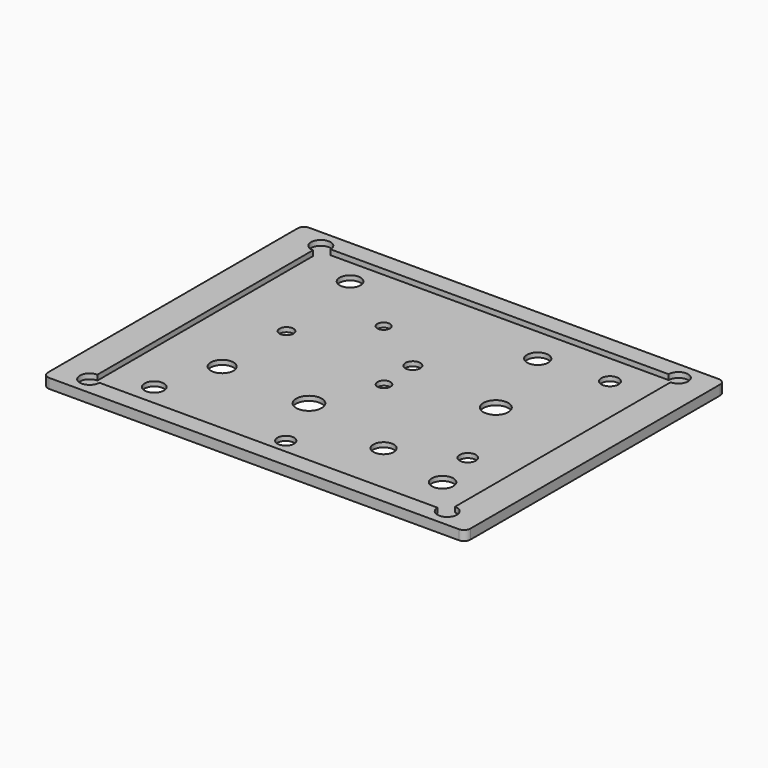
from build123d import *

# Parameters (mm, degrees)
SKETCH_W        = 130
SKETCH_H        = 100
PAD_DEPTH       = 3
POCKET_DEPTH    = 1.6
SKETCH002_R     = 2
SKETCH002_R_2   = 3.501224
SKETCH002_R_3   = 3.145499
SKETCH002_R_4   = 3.838243
SKETCH002_R_5   = 3.281325
SKETCH002_R_6   = 2.288685
SKETCH002_R_7   = 1.945006
SKETCH002_R_8   = 2.13236
SKETCH002_R_9   = 3.927242
SKETCH002_R_10  = 2.558827
SKETCH002_R_11  = 2.9792
SKETCH002_R_12  = 2.479414
SKETCH002_R_13  = 2.648073
SKETCH002_R_14  = 3.212751
SKETCH002_R_15  = 3.309638
POCKET001_DEPTH = 3.001
FILLET_R        = 2


with BuildPart() as part:
    # Sketch → Pad (new body)
    with BuildSketch(Plane.XY):
        with Locations((65, 50)):
            Rectangle(SKETCH_W, SKETCH_H)
    extrude(amount=PAD_DEPTH)

    # Sketch001 (on Face6 of Pad) → Pocket (cut)
    with BuildSketch(Plane.XY.offset(3)):
        with BuildLine():
            ThreePointArc((117, 5.55), (122.12132, 3.42868), (120, 8.55))
            Line((120, 91.45), (120, 8.55))
            ThreePointArc((120, 91.45), (122.12132, 96.57132), (117, 94.45))
            Line((13, 94.45), (117, 94.45))
            ThreePointArc((13, 94.45), (7.87868, 96.57132), (10, 91.45))
            Line((10, 8.55), (10, 91.45))
            ThreePointArc((10, 8.55), (7.87868, 3.42868), (13, 5.55))
            Line((117, 5.55), (13, 5.55))
        make_face()
    extrude(amount=-POCKET_DEPTH, mode=Mode.SUBTRACT)

    # Sketch002 (on Face4 of Pocket) → Pocket001 (cut, through all)
    with BuildSketch(Plane(origin=(0, 0, 0), x_dir=(1, 0, 0), z_dir=(0, 0, -1))):
        with Locations((65, -50)):
            Circle(SKETCH002_R)
        with Locations((28.844851, -32.958813)):
            Circle(SKETCH002_R_2)
        with Locations((85.680542, -23.994795)):
            Circle(SKETCH002_R_3)
        with Locations((93.500214, -57.371456)):
            Circle(SKETCH002_R_4)
        with Locations((85.489815, -83.50061)):
            Circle(SKETCH002_R_5)
        with Locations((64.319481, -61.948826)):
            Circle(SKETCH002_R_6)
        with Locations((46.009991, -73.582977)):
            Circle(SKETCH002_R_7)
        with Locations((29.417021, -56.990009)):
            Circle(SKETCH002_R_8)
        with Locations((57.071968, -31.051573)):
            Circle(SKETCH002_R_9)
        with Locations((64.878792, -12.373779)):
            Circle(SKETCH002_R_10)
        with Locations((22.74169, -14.45861)):
            Circle(SKETCH002_R_11)
        with Locations((104.56218, -32.768085)):
            Circle(SKETCH002_R_12)
        with Locations((106.376934, -85.169306)):
            Circle(SKETCH002_R_13)
        with Locations((25.178326, -86.726067)):
            Circle(SKETCH002_R_14)
        with Locations((107.791985, -19.028767)):
            Circle(SKETCH002_R_15)
    extrude(amount=-POCKET001_DEPTH, mode=Mode.SUBTRACT)

    # Fillet
    fillet_edges = [part.edges().sort_by_distance(p)[0] for p in [
        (130, 0, 1.5),
        (0, 0, 1.5),
        (130, 100, 1.5),
        (0, 100, 1.5),
    ]]
    fillet(fillet_edges, radius=FILLET_R)


solid = part.part
